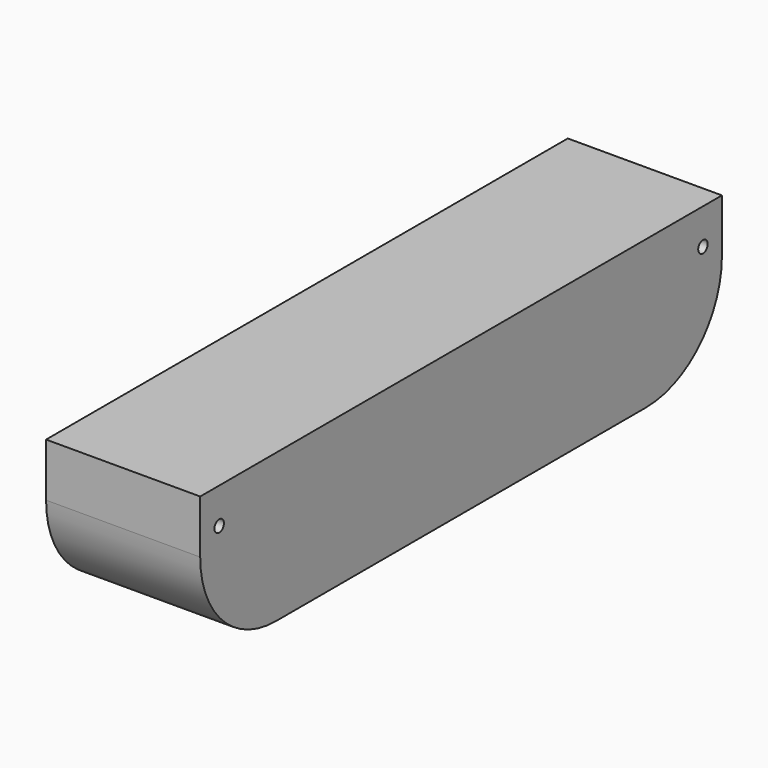
from build123d import *

# Parameters (mm, degrees)
F0_W     = 698.5
F0_H     = 158.75
F0_R     = 6.35
F1_DEPTH = 165.1
F2_R     = 101.6
F3_R     = 101.6


with BuildPart() as f1:
    # F0 (on Right) → F1 (new body)
    with BuildSketch(Plane.YZ):
        Rectangle(F0_W, F0_H)
        with Locations((-323.85, 41.275)):
            Circle(F0_R, mode=Mode.SUBTRACT)
        with Locations((323.85, 41.275)):
            Circle(F0_R, mode=Mode.SUBTRACT)
    extrude(amount=F1_DEPTH)

    # F2
    f2_edges = [f1.edges().sort_by_distance(p)[0] for p in [
        (82.55, 349.25, -79.375),
    ]]
    fillet(f2_edges, radius=F2_R)

    # F3
    f3_edges = [f1.edges().sort_by_distance(p)[0] for p in [
        (82.55, -349.25, -79.375),
    ]]
    fillet(f3_edges, radius=F3_R)


solid = f1.part
